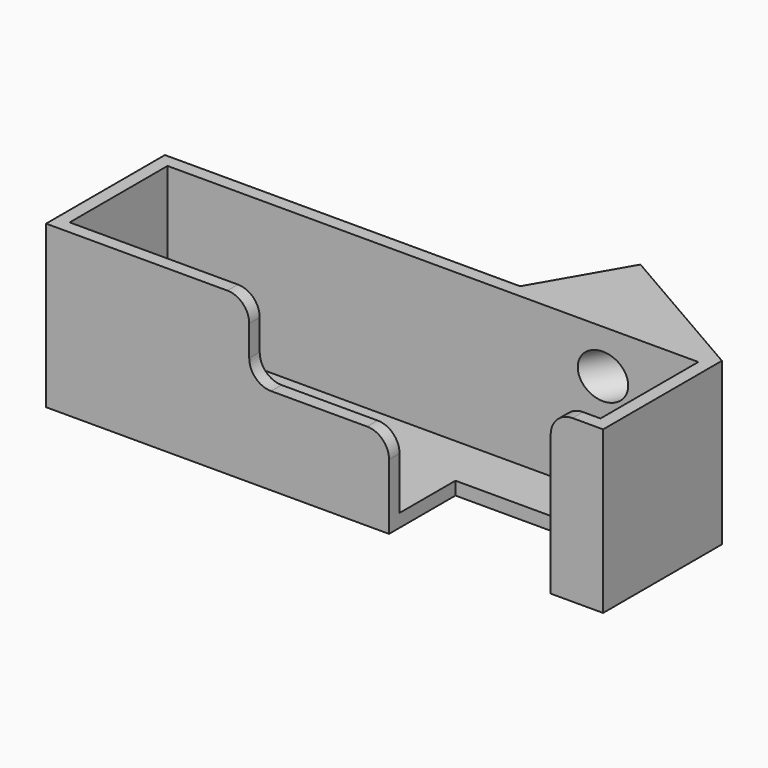
from build123d import *

# Parameters (mm, degrees)
F1_DEPTH = 34
F2_DEPTH = 3
F3_W     = 32
F3_H     = 17
F4_DEPTH = 3
F6_D     = 4
F9_D     = 10
F9_DEPTH = 6.6
F9_START = 8.6756443
F9_TIP   = 3.0043030951
F10_R    = 5


with BuildPart() as f1:
    # F0 (on Top) → F1 (new body)
    with BuildSketch(Plane.XY):
        Polygon((75.5, 0), (0, 0), (0, 28), (121.5, 28), (121.5, 0), (112.5, 0), (112.5, -3), (124.5, -3), (124.5, 31), (89.8589838486, 51), (78.3119784648, 31), (-3, 31), (-3, -3), (75.5, -3), align=None)
    extrude(amount=F1_DEPTH)

    # F0 (on Top) → F2 (join)
    with BuildSketch(Plane.XY):
        Polygon((0, 28), (0, 0), (75.5, 0), (75.5, 16), (112.5, 16), (112.5, 0), (121.5, 0), (121.5, 28), align=None)
        Polygon((75.5, 0), (0, 0), (0, 28), (121.5, 28), (121.5, 0), (112.5, 0), (112.5, -3), (124.5, -3), (124.5, 31), (89.8589838486, 51), (78.3119784648, 31), (-3, 31), (-3, -3), (75.5, -3), align=None)
    extrude(amount=-F2_DEPTH)

    # F3 (on face) → F4 (cut, through all)
    with BuildSketch(Plane.XZ.offset(3)):
        with Locations((59.5, 25.5)):
            Rectangle(F3_W, F3_H)
    extrude(amount=-F4_DEPTH, mode=Mode.SUBTRACT)

    # F6 (through all)
    with Locations(Plane(origin=(44.5483937587, 77.1600813856, 0), x_dir=(-0.8660254038, 0.5, 0), z_dir=(0.5, 0.8660254038, 0))):
        with Locations((-72.3201627712, 24), (-72.3201627712, 10)):
            Hole(F6_D / 2)

    # F9
    # its depths count from where the whole tool has entered the part; down to there all is cleared
    with Locations(Plane(origin=(34.1483937587, 59.1467529869, 0), x_dir=(-0.8660254038, 0.5, 0), z_dir=(-0.5, -0.8660254038, 0))):
        with Locations((-72.3201627712, -24), (-72.3201627712, -10)):
            Hole(F9_D / 2, depth=F9_START)
    with Locations(Plane(origin=(34.1483937587, 59.1467529869, 0), x_dir=(-0.8660254038, 0.5, 0), z_dir=(-0.5, -0.8660254038, 0)).offset(-F9_START)):
        with Locations((-72.3201627712, -24), (-72.3201627712, -10)):
            Hole(F9_D / 2, depth=F9_DEPTH)
            with Locations((0, 0, -(F9_DEPTH + F9_TIP / 2))):  # 118° drill point
                Cone(0, F9_D / 2, F9_TIP, mode=Mode.SUBTRACT)

    # F10
    f10_edges = [f1.edges().sort_by_distance(p)[0] for p in [
        (112.5, -1.5, 34),
        (43.5, -1.5, 34),
        (75.5, -1.5, 17),
        (43.5, -1.5, 17),
    ]]
    fillet(f10_edges, radius=F10_R)


solid = f1.part
